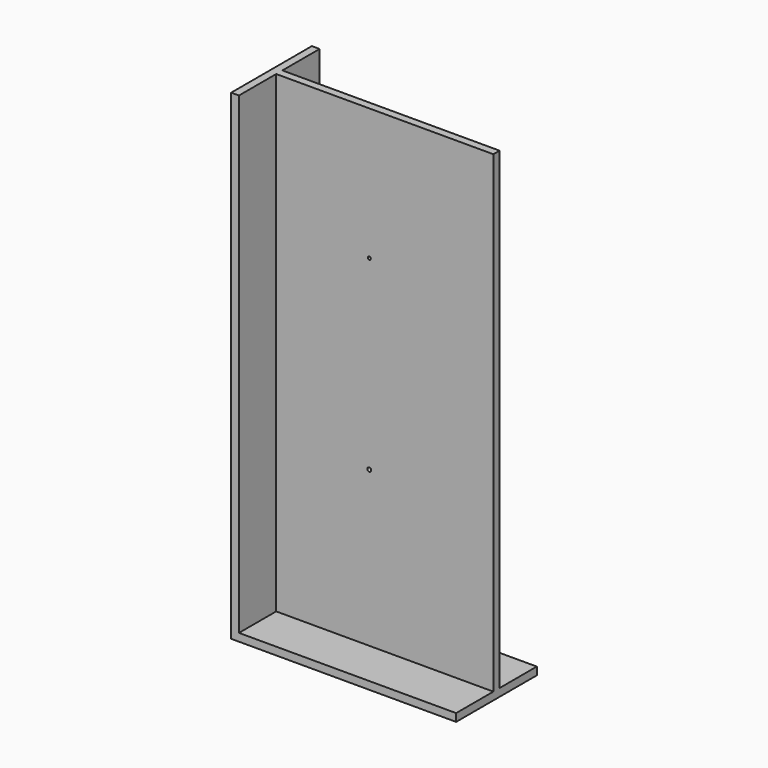
from build123d import *

# Parameters (mm, degrees)
F1_DEPTH = 193.675
F2_W     = 92.075
F2_H     = 41.275
F3_DEPTH = 3.175
F4_R     = 0.79375
F4_R_2   = 0.620834
F5_DEPTH = 3.175


with BuildPart() as f1:
    # F0 (on Top) → F1 (new body)
    with BuildSketch(Plane.XY):
        Polygon((0, 1.5875), (0, 20.6375), (-3.175, 20.6375), (-3.175, -20.6375), (0, -20.6375), (0, -1.5875), (88.9, -1.5875), (88.9, 1.5875), align=None)
    extrude(amount=F1_DEPTH)

    # F2 (on face) → F3 (join)
    with BuildSketch(Plane(origin=(0, 0, 0), x_dir=(1, 0, 0), z_dir=(0, 0, -1))):
        with Locations((42.8625, 0)):
            Rectangle(F2_W, F2_H)
    extrude(amount=F3_DEPTH)

    # F4 (on face) → F5 (cut, through all)
    with BuildSketch(Plane.XZ.offset(1.5875)):
        with Locations((38.1, 63.5)):
            Circle(F4_R)
        with Locations((38.1, 139.7)):
            Circle(F4_R_2)
    extrude(amount=-F5_DEPTH, mode=Mode.SUBTRACT)


solid = f1.part
